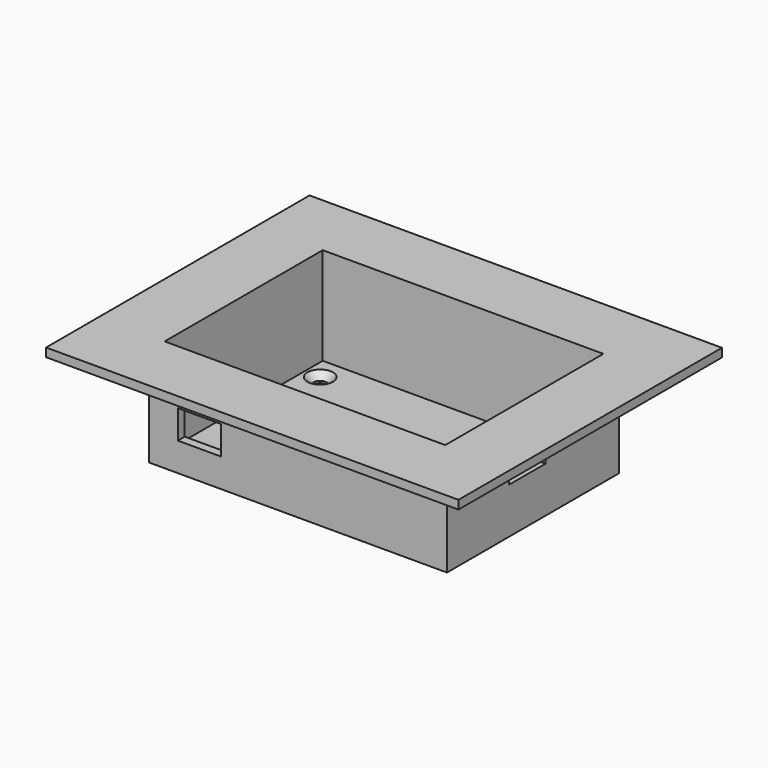
from build123d import *

# Parameters (mm, degrees)
F0_W           = 104
F0_H           = 75
F1_DEPTH       = 37
F2_T           = -3
F4_D           = 4.4
F4_CSINK_D     = 8.96
F4_CSINK_ANGLE = 90
F5_D           = 4.4
F5_CSINK_D     = 8.96
F5_CSINK_ANGLE = 90
F6_W           = 15
F6_H           = 10
F7_DEPTH       = 4
F8_W           = 144
F8_H           = 115
F9_DEPTH       = 3
F10_W          = 98
F10_H          = 69
F11_DEPTH      = 3
F12_W          = 16
F12_H          = 17
F13_DEPTH      = 3


with BuildPart() as f1:
    # F0 (on Top) → F1 (new body)
    with BuildSketch(Plane.XY):
        with Locations((52, 37.5)):
            Rectangle(F0_W, F0_H)
    extrude(amount=F1_DEPTH)

    # F2
    f2_openings = [f1.faces().sort_by_distance(p)[0] for p in [
        (52, 37.5, 37),
    ]]
    offset(amount=F2_T, openings=f2_openings)

    # F4 (through all)
    with Locations(Plane.XY.offset(3)):
        with Locations((8.4720822051, 64.054608345)):
            CounterSinkHole(F4_D / 2, F4_CSINK_D / 2, counter_sink_angle=F4_CSINK_ANGLE)

    # F5 (through all)
    with Locations(Plane.XY.offset(3)):
        with Locations((91.5566533804, 9.1203558259)):
            CounterSinkHole(F5_D / 2, F5_CSINK_D / 2, counter_sink_angle=F5_CSINK_ANGLE)

    # F6 (on face) → F7 (cut)
    with BuildSketch(Plane(origin=(0, 3, 0), x_dir=(-1, 0, 0), z_dir=(0, 1, 0))):
        with Locations((-17.5, 15)):
            Rectangle(F6_W, F6_H)
    extrude(amount=-F7_DEPTH, mode=Mode.SUBTRACT)

    # F8 (on face) → F9 (join)
    with BuildSketch(Plane.XY.offset(37)):
        with Locations((52, 37.5)):
            Rectangle(F8_W, F8_H)
    extrude(amount=-F9_DEPTH)

    # F10 (on face) → F11 (cut)
    with BuildSketch(Plane.XY.offset(37)):
        with Locations((52, 37.5)):
            Rectangle(F10_W, F10_H)
    extrude(amount=-F11_DEPTH, mode=Mode.SUBTRACT)

    # F12 (on face) → F13 (cut)
    with BuildSketch(Plane.YZ.offset(104)):
        with Locations((35, 24.5)):
            Rectangle(F12_W, F12_H)
    extrude(amount=-F13_DEPTH, mode=Mode.SUBTRACT)


solid = f1.part
